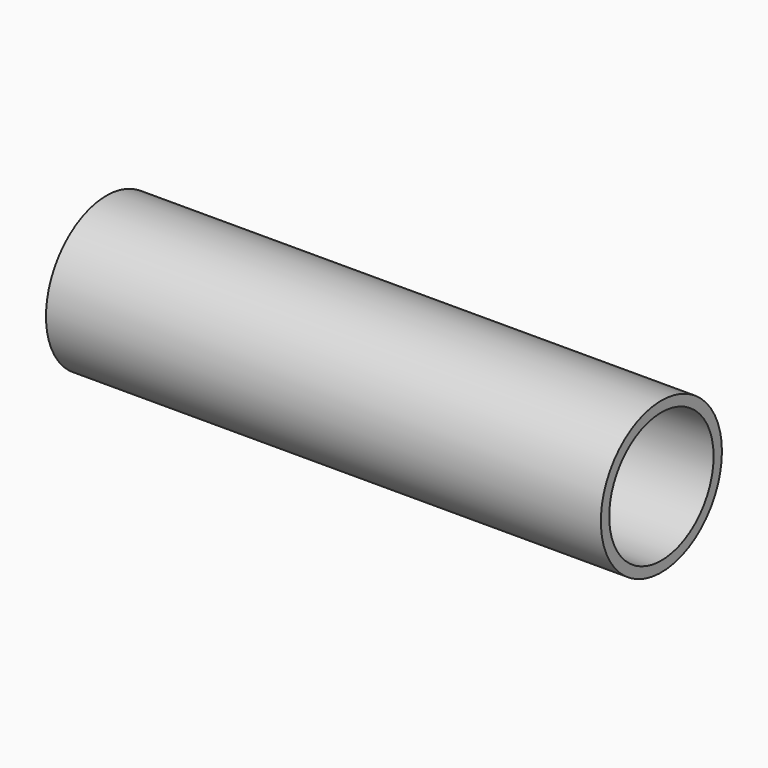
from build123d import *


with BuildPart() as part:
    # Sketch → Revolution (revolve)
    with BuildSketch(Plane.XY):
        Polygon((-33, 7.762236), (-33, 9), (33, 9), (33, 7.762236), (0, 7.762236), align=None)
    revolve(axis=Axis((0, 0, 0), (1, 0, 0)))


solid = part.part
